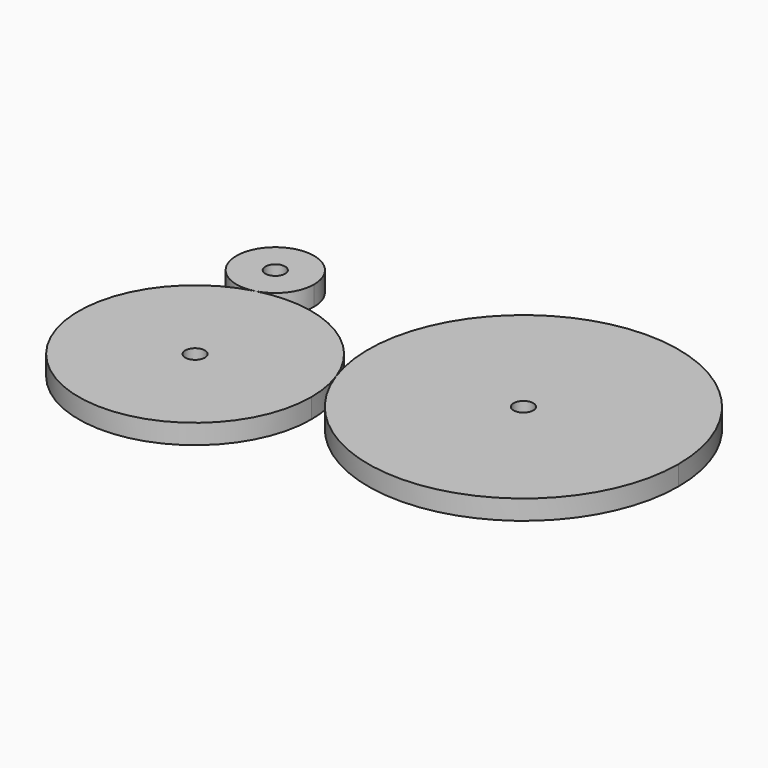
from build123d import *

# Parameters (mm, degrees)
F0_R     = 1.27
F1_DEPTH = 2.54


with BuildPart() as f1:
    # F0 (on Top) → F1 (new body)
    with BuildSketch(Plane.XY):
        with BuildLine():
            ThreePointArc((-20.312293, 7.564549), (-29.275033, 10.613597), (-24.03097, 2.731516))
            ThreePointArc((-24.03097, 2.731516), (-21.349553, 4.515502), (-20.312293, 7.564549))
        make_face()
        with Locations((-25.312293, 7.564549)):
            Circle(F0_R, mode=Mode.SUBTRACT)
        with BuildLine():
            ThreePointArc((-24.03097, 2.731516), (-29.334143, -23.655804), (-5.187, -11.767584))
            ThreePointArc((-5.187, -11.767584), (-5.403076, -9.230737), (-6.045079, -6.766977))
            ThreePointArc((-6.045079, -6.766977), (-13.182195, 1.496379), (-24.03097, 2.731516))
        make_face()
        with Locations((-20.187, -11.767584)):
            Circle(F0_R, mode=Mode.SUBTRACT)
        with BuildLine():
            ThreePointArc((32.810816, -0.099501), (9.428354, 19.612397), (-6.045079, -6.766977))
            ThreePointArc((-6.045079, -6.766977), (16.193278, -19.8114), (32.810816, -0.099501))
        make_face()
        with Locations((12.810816, -0.099501)):
            Circle(F0_R, mode=Mode.SUBTRACT)
    extrude(amount=F1_DEPTH)


solid = f1.part
